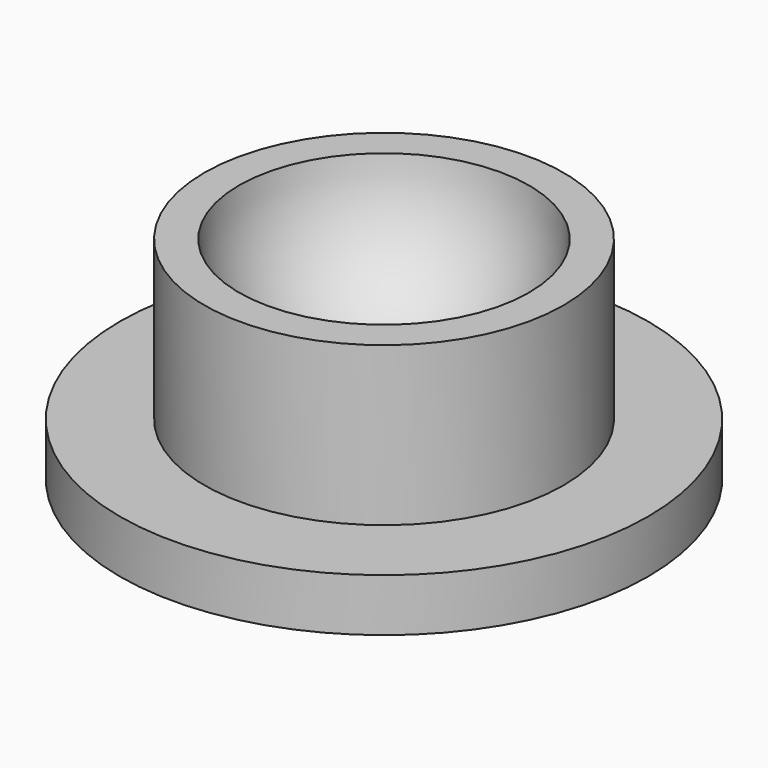
from build123d import *

# Parameters (mm, degrees)
F0_R     = 12.7
F0_R_2   = 8.636
F1_DEPTH = 2.54
F2_DEPTH = 7.62


with BuildPart() as f1:
    # F0 (on Top) → F1 (new body)
    with BuildSketch(Plane.XY):
        Circle(F0_R)
        Circle(F0_R_2, mode=Mode.SUBTRACT)
        Circle(F0_R_2)
    extrude(amount=-F1_DEPTH)

    # F0 (on Top) → F2 (join)
    with BuildSketch(Plane.XY):
        Circle(F0_R_2)
    extrude(amount=F2_DEPTH)

    # F3 (on Front) → F4 (revolve, cut)
    with BuildSketch(Plane.XZ):
        with BuildLine():
            Line((0, 14.949476), (0, 0.979476))
            ThreePointArc((0, 0.979476), (6.985, 7.964476), (0, 14.949476))
        make_face()
    revolve(axis=Axis((0, 0, 5.221219), (0, 0, -1)), mode=Mode.SUBTRACT)


solid = f1.part
